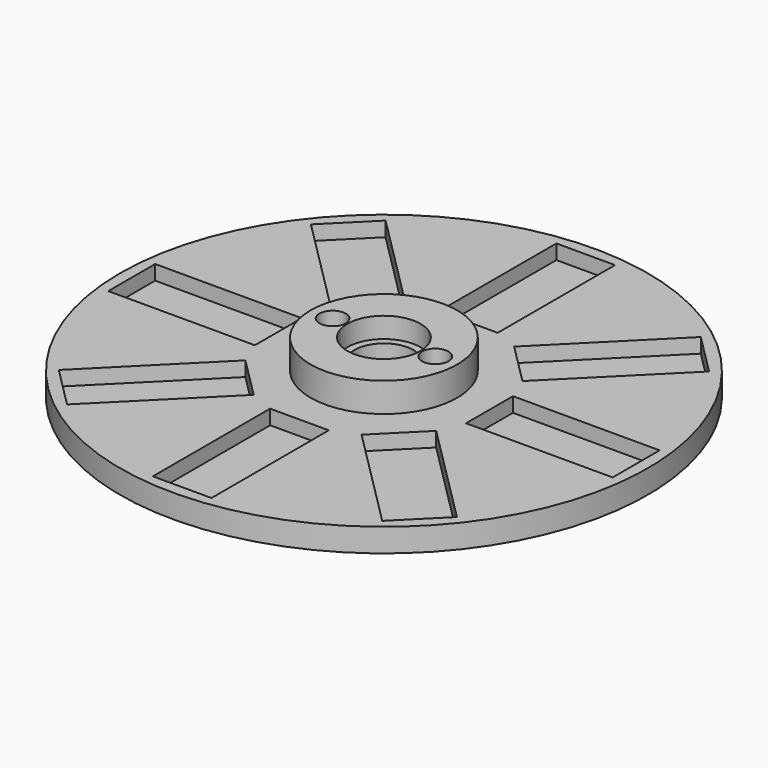
from build123d import *

# Parameters (mm, degrees)
SKETCH_R             = 90
PAD_DEPTH            = 8
SKETCH001_W          = 20
SKETCH001_H          = 50
POCKET_DEPTH         = 5
SKETCH002_W          = 20
SKETCH002_H          = 50
POCKET001_DEPTH      = 5
SKETCH003_W          = 50
SKETCH003_H          = 20
POCKET002_DEPTH      = 5
SKETCH004_W          = 50
SKETCH004_H          = 20
POCKET003_DEPTH      = 5
POCKET004_DEPTH      = 5
POCKET005_DEPTH      = 5
POCKET006_DEPTH      = 5
POCKET007_DEPTH      = 5
SKETCH009_R          = 25
PAD001_DEPTH         = 20
PAD001_DEPTH_BACK    = 10
SKETCH010_R          = 10
HOLE_DEPTH           = 30.001
SKETCH011_R          = 12.5
POCKET008_DEPTH      = 7
SKETCH012_R          = 12.5
POCKET009_DEPTH      = 7
HOLE001_D            = 6
HOLE001_CBORE_D      = 9
HOLE001_CBORE_DEPTH  = 5.4
BODY_PLACEMENT_ANGLE = 180


with BuildPart() as part:
    # Sketch → Pad (new body)
    with BuildSketch(Plane.XY):
        Circle(SKETCH_R)
    extrude(amount=PAD_DEPTH)

    # Sketch001 → Pocket (cut)
    with BuildSketch(Plane.XY):
        with Locations((0, 61)):
            Rectangle(SKETCH001_W, SKETCH001_H)
    extrude(amount=POCKET_DEPTH, mode=Mode.SUBTRACT)

    # Sketch002 → Pocket001 (cut)
    with BuildSketch(Plane.XY):
        with Locations((0, -61)):
            Rectangle(SKETCH002_W, SKETCH002_H)
    extrude(amount=POCKET001_DEPTH, mode=Mode.SUBTRACT)

    # Sketch003 → Pocket002 (cut)
    with BuildSketch(Plane.XY):
        with Locations((61, 0)):
            Rectangle(SKETCH003_W, SKETCH003_H)
    extrude(amount=POCKET002_DEPTH, mode=Mode.SUBTRACT)

    # Sketch004 → Pocket003 (cut)
    with BuildSketch(Plane.XY):
        with Locations((-61, 0)):
            Rectangle(SKETCH004_W, SKETCH004_H)
    extrude(amount=POCKET003_DEPTH, mode=Mode.SUBTRACT)

    # Sketch005 → Pocket004 (cut)
    with BuildSketch(Plane.XY):
        Polygon((-67.882251, 53.740115), (-32.526912, 18.384776), (-18.384776, 32.526912), (-53.740115, 67.882251), align=None)
    extrude(amount=POCKET004_DEPTH, mode=Mode.SUBTRACT)

    # Sketch006 → Pocket005 (cut)
    with BuildSketch(Plane.XY):
        Polygon((18.384776, 32.526912), (32.526912, 18.384776), (67.882251, 53.740115), (53.740115, 67.882251), align=None)
    extrude(amount=POCKET005_DEPTH, mode=Mode.SUBTRACT)

    # Sketch007 → Pocket006 (cut)
    with BuildSketch(Plane.XY):
        Polygon((-67.882251, -53.740115), (-53.740115, -67.882251), (-18.384776, -32.526912), (-32.526912, -18.384776), align=None)
    extrude(amount=POCKET006_DEPTH, mode=Mode.SUBTRACT)

    # Sketch008 → Pocket007 (cut)
    with BuildSketch(Plane.XY):
        Polygon((18.384776, -32.526912), (32.526912, -18.384776), (67.882251, -53.740115), (53.740115, -67.882251), align=None)
    extrude(amount=POCKET007_DEPTH, mode=Mode.SUBTRACT)

    # Sketch009 → Pad001 (join, two sides)
    with BuildSketch(Plane.XY) as pad001_sk:
        Circle(SKETCH009_R)
    extrude(amount=PAD001_DEPTH)
    extrude(pad001_sk.sketch, amount=-PAD001_DEPTH_BACK)

    # Sketch010 (on Face42 of Pad001) → Hole (cut, through all)
    with BuildSketch(Plane(origin=(0, 0, -10), x_dir=(1, 0, 0), z_dir=(0, 0, -1))):
        Circle(SKETCH010_R)
    extrude(amount=-HOLE_DEPTH, mode=Mode.SUBTRACT)

    # Sketch011 (on Face42 of Hole) → Pocket008 (cut)
    with BuildSketch(Plane(origin=(0, 0, -10), x_dir=(1, 0, 0), z_dir=(0, 0, -1))):
        Circle(SKETCH011_R)
    extrude(amount=-POCKET008_DEPTH, mode=Mode.SUBTRACT)

    # Sketch012 (on Face47 of Pocket008) → Pocket009 (cut)
    with BuildSketch(Plane.XY.offset(20)):
        Circle(SKETCH012_R)
    extrude(amount=-POCKET009_DEPTH, mode=Mode.SUBTRACT)

    # Hole001 (through all)
    with Locations(Plane(origin=(0, 0, -10), x_dir=(1, 0, 0), z_dir=(0, 0, -1))):
        with Locations((0, 0), (17.5, 0), (-17.5, 0)):
            CounterBoreHole(HOLE001_D / 2, HOLE001_CBORE_D / 2, HOLE001_CBORE_DEPTH)


with BuildPart() as part_1:
    # Body placement: moved
    add(part.part.moved(Location((0, 0, 10))).rotate(Axis((0, 0, 10), (0, 1, 0)), BODY_PLACEMENT_ANGLE))


solid = part_1.part
